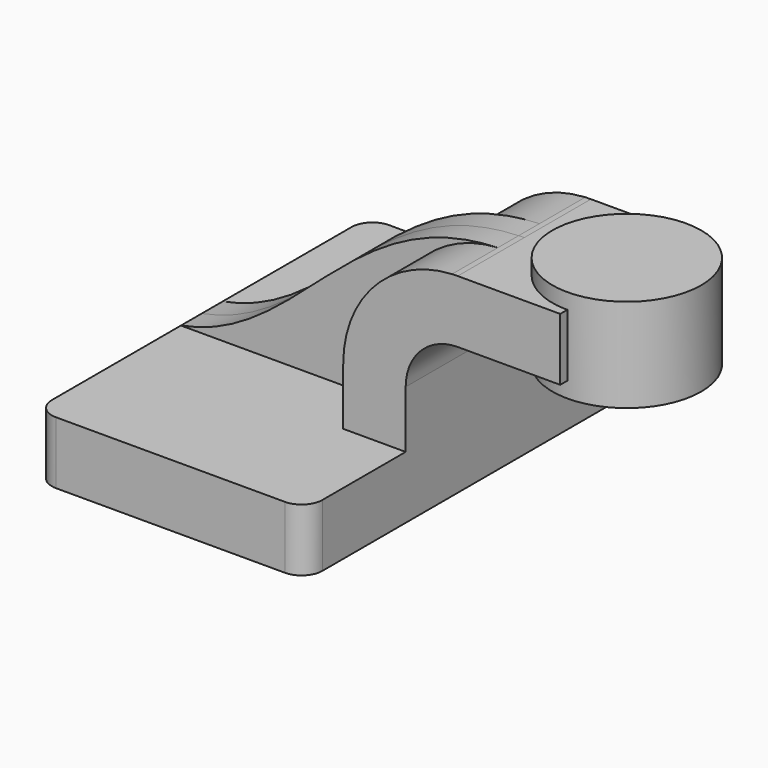
from build123d import *

# Parameters (mm, degrees)
F1_DEPTH = 63.5
F0_W     = 28.1011909684
F0_H     = 19.05
F2_DEPTH = 25.4
F3_DEPTH = 7.9375
F5_R     = 6.35


with BuildPart() as f1:
    # F0 (on Front) → F1 (new body, symmetric)
    with BuildSketch(Plane.XZ):
        Polygon((-41.275, -9.525), (41.275, -9.525), (41.275, 9.525), (22.225, 9.525), (-41.275, 9.525), align=None)
    extrude(amount=F1_DEPTH, both=True)

    # F0 (on Front) → F2 (join, symmetric)
    with BuildSketch(Plane.XZ):
        with BuildLine():
            Line((22.225, 9.525), (41.275, 9.525))
            Line((41.275, 9.525), (41.275, 27.0002))
            ThreePointArc((41.275, 27.0002), (45.9246798487, 38.2255201513), (57.15, 42.8752))
            Line((57.15, 42.8752), (60.325, 42.8752))
            Line((60.325, 42.8752), (60.325, 61.9252))
            Line((60.325, 61.9252), (57.15, 61.9252))
            add(Edge.make_bspline(
                [(55.427881328, 61.8827161403), (55.9970007782, 61.9034093841), (56.5710058522, 61.9176209589), (57.15, 61.9252)],
                knots=[110.1397663473, 110.1397663473, 110.1397663473, 110.1397663473, 111.5045361635, 111.5045361635, 111.5045361635, 111.5045361635], degree=3))
            ThreePointArc((55.427881328, 61.8827161403), (31.8527608263, 51.079346895), (22.225, 27.0002))
            Line((22.225, 27.0002), (22.225, 9.525))
        make_face()
        with Locations((74.3755954842, 52.4002)):
            Rectangle(F0_W, F0_H)
    extrude(amount=F2_DEPTH, both=True)

    # F0 (on Front) → F3 (join, symmetric)
    with BuildSketch(Plane.XZ):
        with BuildLine():
            add(Edge.make_bspline(
                [(-41.275, 9.525), (-4.611149818, 16.3287566492), (9.498756487, 60.2127282691), (55.427881328, 61.8827161403)],
                knots=[0, 0, 0, 0, 110.1397663473, 110.1397663473, 110.1397663473, 110.1397663473], degree=3))
            Line((-41.275, 9.525), (22.225, 9.525))
            Line((22.225, 9.525), (22.225, 27.0002))
            ThreePointArc((22.225, 27.0002), (31.8527608263, 51.079346895), (55.427881328, 61.8827161403))
        make_face()
    extrude(amount=F3_DEPTH, both=True)

    # F5
    f5_edges = [f1.edges().sort_by_distance(p)[0] for p in [
        (-41.275, -63.5, 0),
        (41.275, -63.5, 0),
        (41.275, 63.5, 0),
        (-41.275, 63.5, 0),
    ]]
    fillet(f5_edges, radius=F5_R)


with BuildPart() as f4:
    # F0 (on Front) → F4 (revolve)
    with BuildSketch(Plane.XZ):
        Polygon((88.4261909684, 61.9252), (88.4261909684, 42.8752), (88.4261909684, 38.1), (111.125, 38.1), (111.125, 66.675), (88.4261909684, 66.675), align=None)
    revolve(axis=Axis((88.4261909684, 0, 52.3875), (0, 0, -1)))


solid = Compound([f1.part, f4.part])
